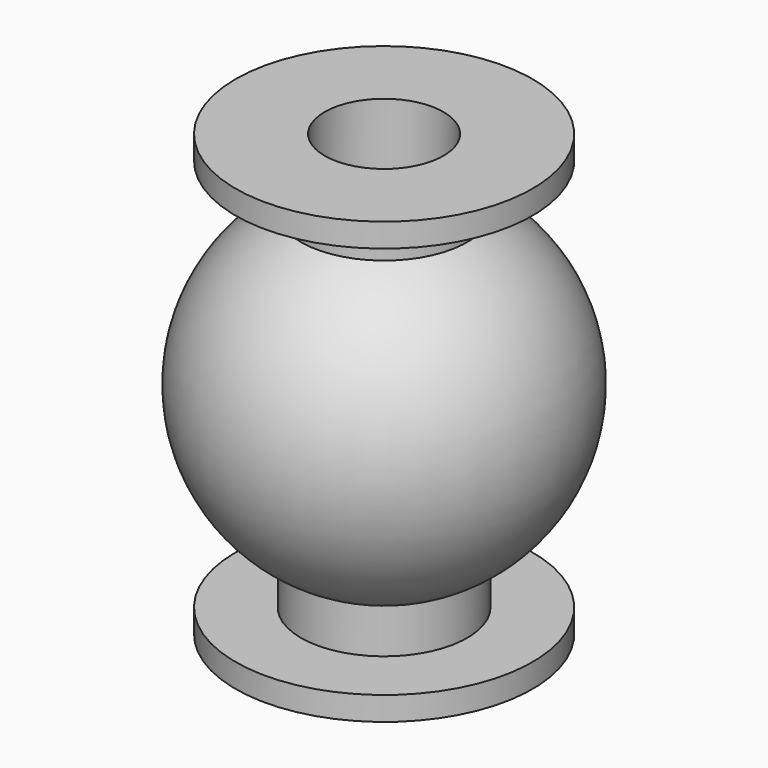
from build123d import *


with BuildPart() as f1:
    # F0 (on Front) → F1 (revolve)
    with BuildSketch(Plane.XZ):
        with BuildLine():
            Line((-2.8, 6.616661), (-2.8, 5.116661))
            ThreePointArc((-2.8, 5.116661), (-5.832685, 0), (-2.8, -5.116661))
            Line((-2.8, -5.116661), (-2.8, -6.616661))
            Line((-2.8, -6.616661), (-5, -6.616661))
            Line((-5, -6.616661), (-5, -7.416661))
            Line((-5, -7.416661), (-2, -7.416661))
            Line((-2, -7.416661), (-2, -5.051145))
            ThreePointArc((-2, -5.051145), (-5.432685, 0), (-2, 5.051145))
            Line((-2, 5.051145), (-2, 7.416661))
            Line((-2, 7.416661), (-5, 7.416661))
            Line((-5, 7.416661), (-5, 6.616661))
            Line((-5, 6.616661), (-2.8, 6.616661))
        make_face()
    revolve(axis=Axis((0, 0, -0.442801), (0, 0, -1)))


solid = f1.part
